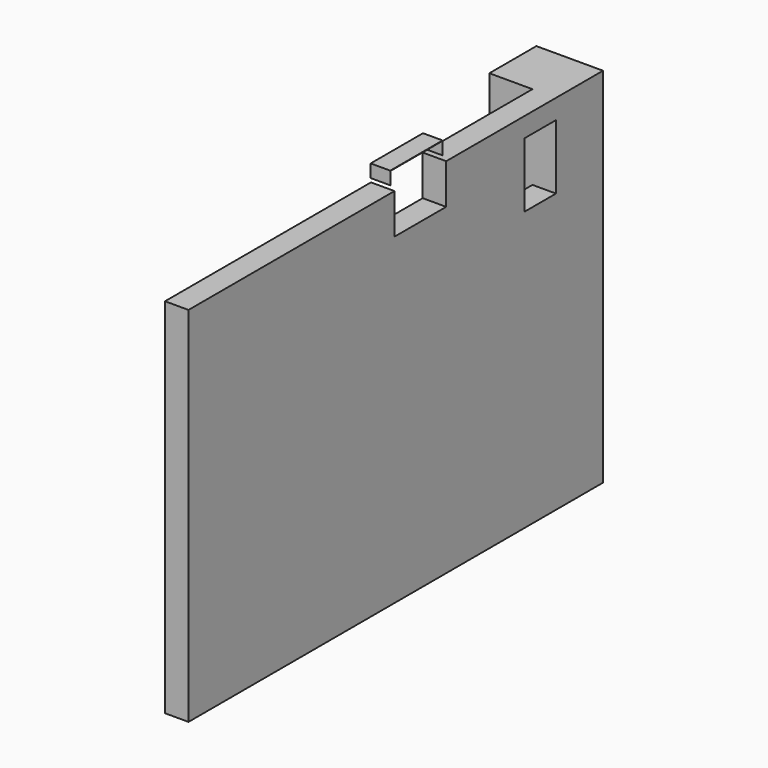
from build123d import *

# Parameters (mm, degrees)
F0_W      = 18288
F0_H      = 5486.4
F1_DEPTH  = 101.6
F2_W      = 4953
F2_H      = 152.4
F2_W_2    = 152.4
F2_H_2    = 3357.5625
F3_DEPTH  = 2426.49375
F4_DEPTH  = 152.4
F5_DEPTH  = 152.4
F6_W      = 4953
F6_H      = 152.4
F7_DEPTH  = 2350.29375
F8_DEPTH  = 76.2
F9_W      = 381
F9_H      = 279.4
F10_DEPTH = 2350.29375
F11_DEPTH = 101.6
F12_DEPTH = 101.6
F13_DEPTH = 275.43252
F14_DEPTH = 275.43252
F15_DEPTH = 25.4
F16_W     = 762
F16_H     = 254
F17_DEPTH = 2128.8385
F18_DEPTH = 190.5
F19_DEPTH = 63.5
F20_W     = 254
F20_H     = 304.8
F21_DEPTH = 152.401
F22_W     = 281.7354995728
F22_H     = 304.8
F23_DEPTH = 152.401
F24_DEPTH = 304.8
F25_DEPTH = 304.8
F26_DEPTH = 25.4
F27_DEPTH = 25.4
F28_DEPTH = 12.7
F29_DEPTH = 12.7
F30_W     = 127
F30_H     = 2350.29375
F31_DEPTH = 12907.16748
F32_W     = 1574.8
F32_H     = 2133.6
F33_DEPTH = 3230.5635
F34_DEPTH = 1320.8
F35_DEPTH = 1320.8
F36_DEPTH = 120.65
F37_DEPTH = 76.201
F38_DEPTH = 190.5
F39_DEPTH = 190.5
F40_DEPTH = 76.2
F41_DEPTH = 406.4
F42_DEPTH = 406.4
F43_DEPTH = 76.2
F44_DEPTH = 60.96
F45_DEPTH = 25.4
F46_DEPTH = 63.5
F47_DEPTH = 101.6
F48_DEPTH = 127
F49_DEPTH = 25.4
F50_DEPTH = 127
F51_DEPTH = 152.4
F52_DEPTH = 127
F53_W     = 418.8954995728
F53_H     = 2.54
F54_DEPTH = 127


with BuildPart() as f1:
    # F0 (on Top) → F1 (new body)
    with BuildSketch(Plane.XY):
        with Locations((9144, 2743.2)):
            Rectangle(F0_W, F0_H)
    extrude(amount=F1_DEPTH)

    # F2 (on face) → F3 (join)
    with BuildSketch(Plane.XY.offset(101.6)):
        with Locations((15811.5, 2052.6375)):
            Rectangle(F2_W, F2_H)
        with Locations((13258.8, 3807.61875)):
            Rectangle(F2_W_2, F2_H_2)
        with Locations((13258.8, 2052.6375)):
            Rectangle(F2_W_2, F2_H)
    extrude(amount=F3_DEPTH)

    # F4 (add): a face of the model
    f4_faces = [f1.faces().sort_by_distance(p)[0] for p in [
        (18288, 60.4084786837, 50.8),
    ]]
    extrude(f4_faces, amount=F4_DEPTH)

    # F5 (add): a face of the model
    f5_faces = [f1.faces().sort_by_distance(p)[0] for p in [
        (15887.7, 5486.4, 82.9871117188),
    ]]
    extrude(f5_faces, amount=F5_DEPTH)

    # F6 (on face) → F7 (join)
    with BuildSketch(Plane.XY.offset(101.6)):
        with Locations((15811.5, 5562.6)):
            Rectangle(F6_W, F6_H)
        Polygon((18288, 2128.8375), (18440.4, 2128.8375), (18440.4, 5638.8), (18288, 5638.8), (18288, 5486.4), align=None)
    extrude(amount=F7_DEPTH)

    # F8 (cut): a face of the model
    f8_faces = [f1.faces().sort_by_distance(p)[0] for p in [
        (13270.9239827069, 3883.81875, 2528.09375),
    ]]
    extrude(f8_faces, amount=-F8_DEPTH, mode=Mode.SUBTRACT)

    # F9 (on face) → F10 (join, through all)
    with BuildSketch(Plane.XY.offset(101.6)):
        with Locations((18097.5, 5346.7)):
            Rectangle(F9_W, F9_H)
    extrude(amount=F10_DEPTH)

    # F11 (add): a face of the model
    f11_faces = [f1.faces().sort_by_distance(p)[0] for p in [
        (18097.5, 5207, 1276.746875),
    ]]
    extrude(f11_faces, amount=F11_DEPTH)

    # F12 (cut): a face of the model
    f12_faces = [f1.faces().sort_by_distance(p)[0] for p in [
        (17907, 5295.9, 1276.746875),
    ]]
    extrude(f12_faces, amount=-F12_DEPTH, mode=Mode.SUBTRACT)

    # F13 (add): a face of the model
    f13_faces = [f1.faces().sort_by_distance(p)[0] for p in [
        (13182.6, 3807.61875, 1276.746875),
    ]]
    extrude(f13_faces, amount=F13_DEPTH)

    # F14 (cut): a face of the model
    f14_faces = [f1.faces().sort_by_distance(p)[0] for p in [
        (13335, 3807.61875, 1276.746875),
    ]]
    extrude(f14_faces, amount=-F14_DEPTH, mode=Mode.SUBTRACT)

    # F15 (cut): a face of the model
    f15_faces = [f1.faces().sort_by_distance(p)[0] for p in [
        (15673.78374, 1976.4375, 1276.746875),
    ]]
    extrude(f15_faces, amount=-F15_DEPTH, mode=Mode.SUBTRACT)

    # F16 (on face) → F17 (cut, through all)
    with BuildSketch(Plane(origin=(0, 2128.8375, 0), x_dir=(-1, 0, 0), z_dir=(0, 1, 0))):
        with Locations((-14812.16748, 2070.89375)):
            Rectangle(F16_W, F16_H)
    extrude(amount=-F17_DEPTH, mode=Mode.SUBTRACT)

    # F18 (cut): a face of the model
    f18_faces = [f1.faces().sort_by_distance(p)[0] for p in [
        (14812.16748, 2065.3375, 2197.89375),
    ]]
    extrude(f18_faces, amount=-F18_DEPTH, mode=Mode.SUBTRACT)

    # F19 (add): a face of the model
    f19_faces = [f1.faces().sort_by_distance(p)[0] for p in [
        (14812.16748, 2065.3375, 1943.89375),
    ]]
    extrude(f19_faces, amount=F19_DEPTH)

    # F20 (on face) → F21 (cut, through all)
    with BuildSketch(Plane(origin=(18288, 0, 0), x_dir=(0, -1, 0), z_dir=(-1, 0, 0))):
        with Locations((-4978.4, 2223.29375)):
            Rectangle(F20_W, F20_H)
    extrude(amount=-F21_DEPTH, mode=Mode.SUBTRACT)

    # F22 (on face) → F23 (cut, through all)
    with BuildSketch(Plane(origin=(18288, 0, 0), x_dir=(0, -1, 0), z_dir=(-1, 0, 0))):
        with Locations((-3747.6677497864, 2223.29375)):
            Rectangle(F22_W, F22_H)
    extrude(amount=-F23_DEPTH, mode=Mode.SUBTRACT)

    # F24 (cut): a face of the model
    f24_faces = [f1.faces().sort_by_distance(p)[0] for p in [
        (18364.2, 3888.5354995728, 2223.29375),
    ]]
    extrude(f24_faces, amount=-F24_DEPTH, mode=Mode.SUBTRACT)

    # F25 (add): a face of the model
    f25_faces = [f1.faces().sort_by_distance(p)[0] for p in [
        (18364.2, 3606.8, 2223.29375),
    ]]
    extrude(f25_faces, amount=F25_DEPTH)

    # F26 (add): a face of the model
    f26_faces = [f1.faces().sort_by_distance(p)[0] for p in [
        (18364.2, 4193.3354995728, 2223.29375),
    ]]
    extrude(f26_faces, amount=F26_DEPTH)

    # F27 (cut): a face of the model
    f27_faces = [f1.faces().sort_by_distance(p)[0] for p in [
        (18364.2, 3911.6, 2223.29375),
    ]]
    extrude(f27_faces, amount=-F27_DEPTH, mode=Mode.SUBTRACT)

    # F28 (cut): a face of the model
    f28_faces = [f1.faces().sort_by_distance(p)[0] for p in [
        (18364.2, 3886.2, 2223.29375),
    ]]
    extrude(f28_faces, amount=-F28_DEPTH, mode=Mode.SUBTRACT)

    # F29 (add): a face of the model
    f29_faces = [f1.faces().sort_by_distance(p)[0] for p in [
        (18364.2, 4167.9354995728, 2223.29375),
    ]]
    extrude(f29_faces, amount=F29_DEPTH)

    # F30 (on face) → F31 (join, through all)
    with BuildSketch(Plane(origin=(12907.16748, 0, 0), x_dir=(0, -1, 0), z_dir=(-1, 0, 0))):
        with Locations((-2471.7375, 1276.746875)):
            Rectangle(F30_W, F30_H)
    extrude(amount=F31_DEPTH)

    # F32 (on face) → F33 (cut, through all)
    with BuildSketch(Plane.XZ.offset(-2408.2375)):
        with Locations((12018.16748, 1168.4)):
            Rectangle(F32_W, F32_H)
    extrude(amount=-F33_DEPTH, mode=Mode.SUBTRACT)

    # F34 (cut): a face of the model
    f34_faces = [f1.faces().sort_by_distance(p)[0] for p in [
        (11230.76748, 2471.7375, 1168.4),
    ]]
    extrude(f34_faces, amount=-F34_DEPTH, mode=Mode.SUBTRACT)

    # F35 (add): a face of the model
    f35_faces = [f1.faces().sort_by_distance(p)[0] for p in [
        (12805.56748, 2471.7375, 1168.4),
    ]]
    extrude(f35_faces, amount=F35_DEPTH)

    # F36 (add): a face of the model
    f36_faces = [f1.faces().sort_by_distance(p)[0] for p in [
        (18364.2, 4014.3677497864, 2070.89375),
    ]]
    extrude(f36_faces, amount=F36_DEPTH)

    # F37 (cut, through all): a face of the model
    f37_faces = [f1.faces().sort_by_distance(p)[0] for p in [
        (18364.2, 4014.3677497864, 2375.69375),
    ]]
    extrude(f37_faces, amount=-F37_DEPTH, mode=Mode.SUBTRACT)

    # F38 (cut): a face of the model
    f38_faces = [f1.faces().sort_by_distance(p)[0] for p in [
        (18364.2, 4978.4, 2070.89375),
    ]]
    extrude(f38_faces, amount=-F38_DEPTH, mode=Mode.SUBTRACT)

    # F39 (add): a face of the model
    f39_faces = [f1.faces().sort_by_distance(p)[0] for p in [
        (18364.2, 4978.4, 2375.69375),
    ]]
    extrude(f39_faces, amount=F39_DEPTH)

    # F40 (cut): a face of the model
    f40_faces = [f1.faces().sort_by_distance(p)[0] for p in [
        (18364.2, 4978.4, 2185.19375),
    ]]
    extrude(f40_faces, amount=-F40_DEPTH, mode=Mode.SUBTRACT)

    # F41 (cut): a face of the model
    f41_faces = [f1.faces().sort_by_distance(p)[0] for p in [
        (15193.16748, 2065.3375, 2197.89375),
    ]]
    extrude(f41_faces, amount=-F41_DEPTH, mode=Mode.SUBTRACT)

    # F42 (add): a face of the model
    f42_faces = [f1.faces().sort_by_distance(p)[0] for p in [
        (14431.16748, 2065.3375, 2197.89375),
    ]]
    extrude(f42_faces, amount=F42_DEPTH)

    # F43 (cut): a face of the model
    f43_faces = [f1.faces().sort_by_distance(p)[0] for p in [
        (18364.2, 3873.5, 2321.71875),
    ]]
    extrude(f43_faces, amount=-F43_DEPTH, mode=Mode.SUBTRACT)

    # F44 (cut): a face of the model
    f44_faces = [f1.faces().sort_by_distance(p)[0] for p in [
        (18364.2, 4155.2354995728, 2321.71875),
    ]]
    extrude(f44_faces, amount=-F44_DEPTH, mode=Mode.SUBTRACT)

    # F45 (add): a face of the model
    f45_faces = [f1.faces().sort_by_distance(p)[0] for p in [
        (18364.2, 4978.4, 1880.39375),
    ]]
    extrude(f45_faces, amount=F45_DEPTH)

    # F46 (cut): a face of the model
    f46_faces = [f1.faces().sort_by_distance(p)[0] for p in [
        (18364.2, 4978.4, 2261.39375),
    ]]
    extrude(f46_faces, amount=-F46_DEPTH, mode=Mode.SUBTRACT)

    # F47 (cut, through all): a face of the model
    f47_faces = [f1.faces().sort_by_distance(p)[0] for p in [
        (9220.2, 2819.4, 0),
    ]]
    extrude(f47_faces, amount=-F47_DEPTH, mode=Mode.SUBTRACT)

    # F48 (cut, through all): faces of the model
    f48_faces = [f1.faces().sort_by_distance(p)[0] for p in [
        (15684.1781980177, 2001.8375, 1255.7133062071),
        (15684.7988226442, 2128.8375, 1254.457449408),
    ]]
    extrude(f48_faces, amount=-F48_DEPTH, mode=Mode.SUBTRACT)

    # F49 (cut): faces of the model
    f49_faces = [f1.faces().sort_by_distance(p)[0] for p in [
        (15673.78374, 5638.8, 1276.746875),
        (15534.08374, 5486.4, 1276.746875),
    ]]
    extrude(f49_faces, amount=-F49_DEPTH, dir=(0, 1, 0), mode=Mode.SUBTRACT)

    # F50 (cut, through all): a face of the model
    f50_faces = [f1.faces().sort_by_distance(p)[0] for p in [
        (15673.78374, 5613.4, 1276.746875),
    ]]
    extrude(f50_faces, amount=-F50_DEPTH, mode=Mode.SUBTRACT)

    # F51 (cut, through all): a face of the model
    f51_faces = [f1.faces().sort_by_distance(p)[0] for p in [
        (13059.56748, 3807.61875, 1276.746875),
    ]]
    extrude(f51_faces, amount=-F51_DEPTH, mode=Mode.SUBTRACT)

    # F52 (cut, through all): a face of the model
    f52_faces = [f1.faces().sort_by_distance(p)[0] for p in [
        (5924.9926145215, 2408.2375, 1290.2421895841),
    ]]
    extrude(f52_faces, amount=-F52_DEPTH, mode=Mode.SUBTRACT)


with BuildPart() as f54:
    # F53 (on face) → F54 (new body)
    with BuildSketch(Plane(origin=(18288, 0, 0), x_dir=(0, -1, 0), z_dir=(-1, 0, 0))):
        with Locations((-4006.7477497864, 2559.84375)):
            Rectangle(F53_W, F53_H)
        Polygon((-3797.3, 2558.57375), (-3797.3, 2477.29375), (-3794.76, 2477.29375), (-3794.76, 2561.11375), (-3797.3, 2561.11375), align=None)
        Polygon((-4216.1954995728, 2477.29375), (-4216.1954995728, 2558.57375), (-4216.1954995728, 2561.11375), (-4218.7354995728, 2561.11375), (-4218.7354995728, 2477.29375), align=None)
    extrude(amount=-F54_DEPTH)


solid = Compound([f1.part, f54.part])
